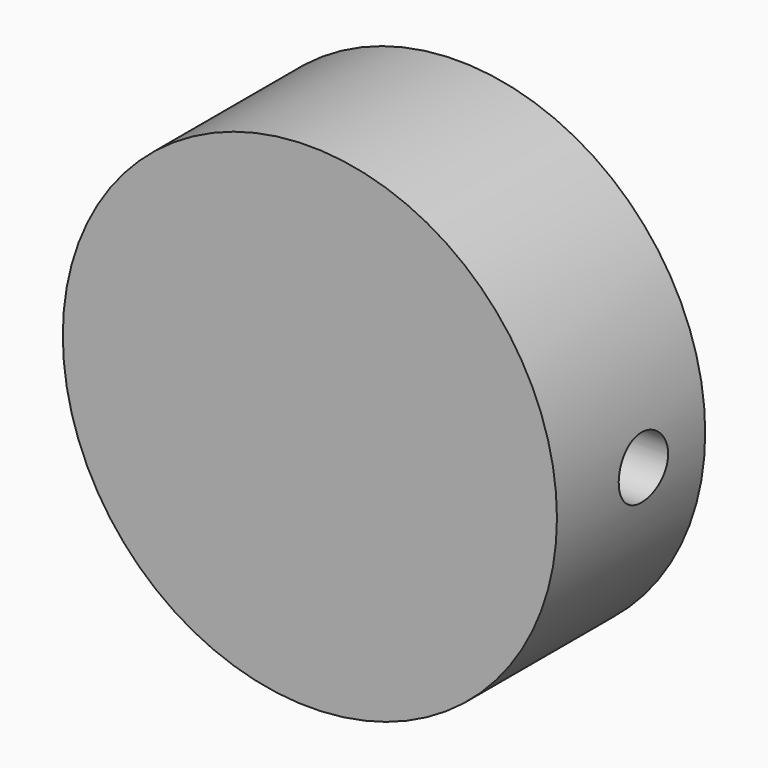
from build123d import *

# Parameters (mm, degrees)
F0_R     = 40
F1_DEPTH = 30
F2_W     = 15
F2_H     = 25
F3_DEPTH = 25
F4_R     = 5
F5_DEPTH = 61.901644


with BuildPart() as f1:
    # F0 (on Front) → F1 (new body)
    with BuildSketch(Plane.XZ):
        Circle(F0_R)
    extrude(amount=-F1_DEPTH)

    # F2 (on face) → F3 (cut)
    with BuildSketch(Plane(origin=(0, 30, 0), x_dir=(-1, 0, 0), z_dir=(0, 1, 0))):
        Rectangle(F2_W, F2_H)
    extrude(amount=-F3_DEPTH, mode=Mode.SUBTRACT)

    # F4 (on face) → F5 (cut, symmetric)
    with BuildSketch(Plane.YZ.offset(-7.5)):
        with Locations((17.5, 0)):
            Circle(F4_R)
    extrude(amount=F5_DEPTH, both=True, mode=Mode.SUBTRACT)


solid = f1.part
